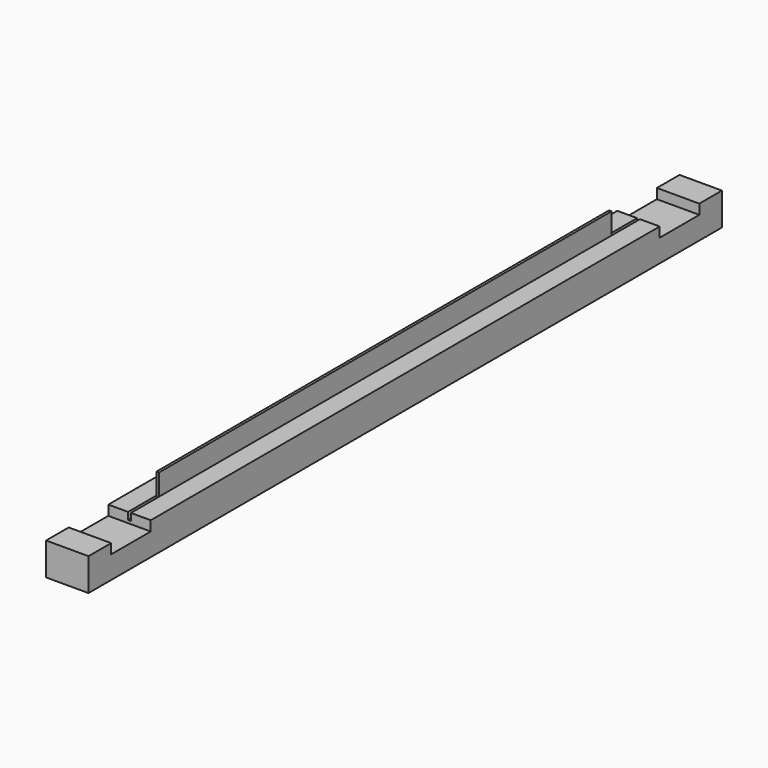
from build123d import *

# Parameters (mm, degrees)
F0_W     = 30
F0_H     = 23
F1_DEPTH = 560
F2_W     = 35
F2_H     = 7
F3_DEPTH = 30.001
F4_W     = 2
F4_H     = 5
F5_DEPTH = 450
F7_START = -25
F6_W     = 1.8
F6_H     = 20
F7_DEPTH = 400
F9_START = -130
F8_R     = 2.5
F9_DEPTH = 300


with BuildPart() as f1:
    # F0 (on Front) → F1 (new body)
    with BuildSketch(Plane.XZ):
        Rectangle(F0_W, F0_H)
    extrude(amount=F1_DEPTH)

    # F2 (on face) → F3 (cut, through all)
    with BuildSketch(Plane.YZ.offset(15)):
        with Locations((-522.5, 8)):
            Rectangle(F2_W, F2_H)
        with Locations((-37.5, 8)):
            Rectangle(F2_W, F2_H)
    extrude(amount=-F3_DEPTH, mode=Mode.SUBTRACT)

    # F4 (on face) → F5 (cut, through all)
    with BuildSketch(Plane.XZ.offset(505)):
        with Locations((0, 9)):
            Rectangle(F4_W, F4_H)
    extrude(amount=-F5_DEPTH, mode=Mode.SUBTRACT)

    # F8 (on face) → F9 (join)
    with BuildSketch(Plane.XZ.offset(560).offset(F9_START)):
        with Locations((0, -14)):
            Circle(F8_R)
    extrude(amount=-F9_DEPTH)


with BuildPart() as f7:
    # F6 (on face) → F7 (new body)
    with BuildSketch(Plane.XZ.offset(505).offset(F7_START)):
        with Locations((0, 16.5)):
            Rectangle(F6_W, F6_H)
    extrude(amount=-F7_DEPTH)


solid = Compound([f1.part, f7.part])
